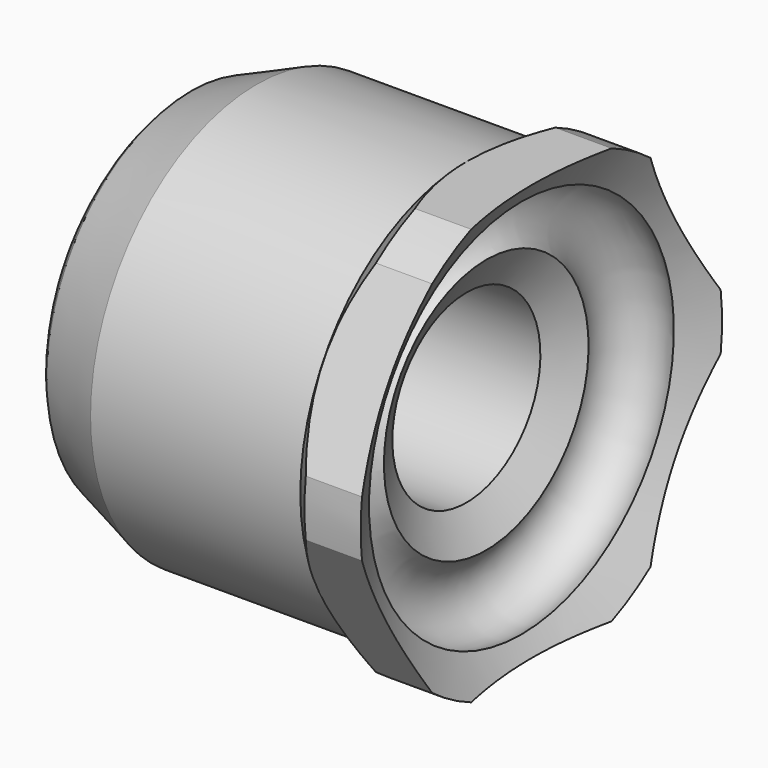
from build123d import *

# Parameters (mm, degrees)
F2_R     = 117.132318
F3_DEPTH = 157.902554


with BuildPart() as f1:
    # F0 (on Front) → F1 (revolve)
    with BuildSketch(Plane.XZ):
        with BuildLine():
            Line((0, 20), (20, 20))
            Line((20, 20), (65.331466, 20))
            Line((65.331466, 20), (65.331466, 44.863343))
            Line((65.331466, 44.863343), (20, 44.863343))
            Line((20, 44.863343), (5.857864, 39.005479))
            ThreePointArc((5.857864, 39.005479), (1.522409, 32.517012), (0, 24.863343))
            Line((0, 24.863343), (0, 20))
        make_face()
        with BuildLine():
            Line((65.331466, 44.863343), (65.331466, 20))
            Line((65.331466, 20), (69.630553, 27.648209))
            ThreePointArc((69.630553, 27.648209), (66.667779, 38.217287), (77.236857, 41.180061))
            Line((77.236857, 41.180061), (81.535943, 48.82827))
            Line((81.535943, 48.82827), (69.382586, 48.82827))
            Line((69.382586, 48.82827), (65.331466, 44.863343))
        make_face()
    revolve(axis=Axis((10, 0, 0), (-1, 0, 0)))

    # F2 (on Right) → F3 (cut)
    with BuildSketch(Plane.YZ):
        Circle(F2_R)
        Polygon((-51.961524, 0), (-25.980762, 45), (25.980762, 45), (51.961524, 0), (25.980762, -45), (-25.980762, -45), align=None, mode=Mode.SUBTRACT)
    extrude(amount=F3_DEPTH, mode=Mode.SUBTRACT)


solid = f1.part
